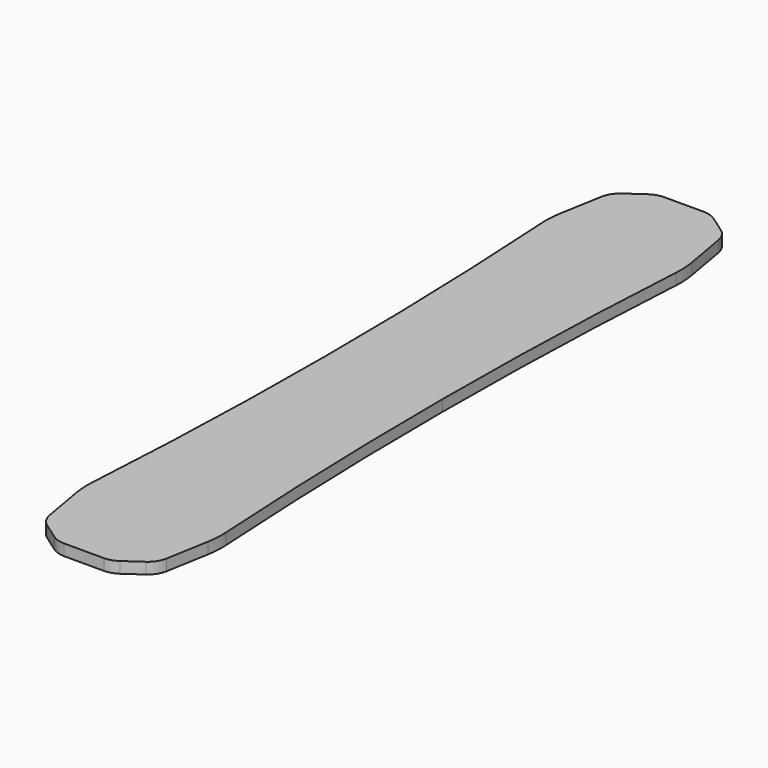
from build123d import *

# Parameters (mm, degrees)
F1_DEPTH = 25


with BuildPart() as f1:
    # F0 (on Top) → F1 (new body)
    with BuildSketch(Plane.XY):
        with BuildLine():
            ThreePointArc((-149.633868, 626.332083), (-134.909672, 313.319871), (-130, 0))
            ThreePointArc((-130, 0), (-134.909672, -313.319871), (-149.633868, -626.332083))
            ThreePointArc((-149.633868, -626.332083), (-149.713818, -650.038763), (-146.988096, -673.58836))
            Line((-146.988096, -673.58836), (-130.367124, -767.85058))
            ThreePointArc((-130.367124, -767.85058), (-123.296308, -786.033151), (-109.805558, -800.125773))
            Line((-109.805558, -800.125773), (-72.913882, -825.957602))
            ThreePointArc((-72.913882, -825.957602), (-59.270351, -832.685848), (-44.235061, -835))
            Line((-44.235061, -835), (0, -835))
            Line((0, -835), (44.235061, -835))
            ThreePointArc((44.235061, -835), (59.270351, -832.685848), (72.913882, -825.957602))
            Line((72.913882, -825.957602), (109.805558, -800.125773))
            ThreePointArc((109.805558, -800.125773), (123.296308, -786.033151), (130.367124, -767.85058))
            Line((130.367124, -767.85058), (146.988096, -673.58836))
            ThreePointArc((146.988096, -673.58836), (149.713818, -650.038763), (149.633868, -626.332083))
            ThreePointArc((149.633868, -626.332083), (134.909672, -313.319871), (130, 0))
            ThreePointArc((130, 0), (134.909672, 313.319871), (149.633868, 626.332083))
            ThreePointArc((149.633868, 626.332083), (149.713818, 650.038763), (146.988096, 673.58836))
            Line((146.988096, 673.58836), (130.367124, 767.85058))
            ThreePointArc((130.367124, 767.85058), (123.296308, 786.033151), (109.805558, 800.125773))
            Line((109.805558, 800.125773), (72.913882, 825.957602))
            ThreePointArc((72.913882, 825.957602), (59.270351, 832.685848), (44.235061, 835))
            Line((44.235061, 835), (0, 835))
            Line((0, 835), (-44.235061, 835))
            ThreePointArc((-44.235061, 835), (-59.270351, 832.685848), (-72.913882, 825.957602))
            Line((-72.913882, 825.957602), (-109.805558, 800.125773))
            ThreePointArc((-109.805558, 800.125773), (-123.296308, 786.033151), (-130.367124, 767.85058))
            Line((-130.367124, 767.85058), (-146.988096, 673.58836))
            ThreePointArc((-146.988096, 673.58836), (-149.713818, 650.038763), (-149.633868, 626.332083))
        make_face()
    extrude(amount=F1_DEPTH)


solid = f1.part
